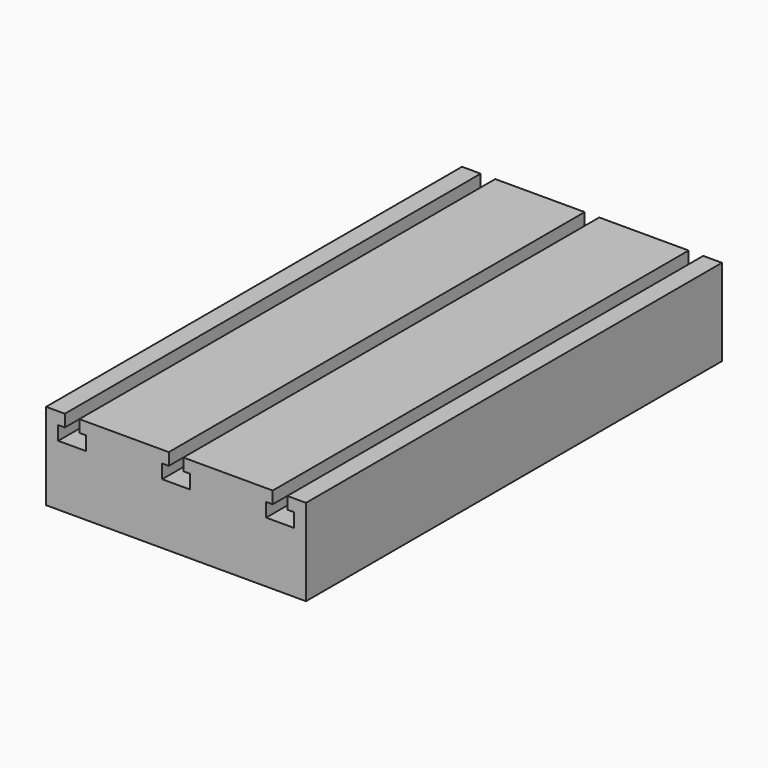
from build123d import *

# Parameters (mm, degrees)
F1_DEPTH      = 150
F1_DEPTH_BACK = 150


with BuildPart() as f1:
    # F0 (on Front) → F1 (new body, two sides)
    with BuildSketch(Plane.XZ) as f1_sk:
        Polygon((-75, 25), (-75, -25), (75, -25), (75, 25), (64.2, 25), (64.2, 18), (68, 18), (68, 10), (52, 10), (52, 18), (55.8, 18), (55.8, 25), (4.2, 25), (4.2, 18), (8, 18), (8, 10), (-8, 10), (-8, 18), (-4.2, 18), (-4.2, 25), (-55.8, 25), (-55.8, 18), (-52, 18), (-52, 10), (-68, 10), (-68, 18), (-64.2, 18), (-64.2, 25), align=None)
    extrude(amount=-F1_DEPTH)
    extrude(f1_sk.sketch, amount=F1_DEPTH_BACK)


solid = f1.part
